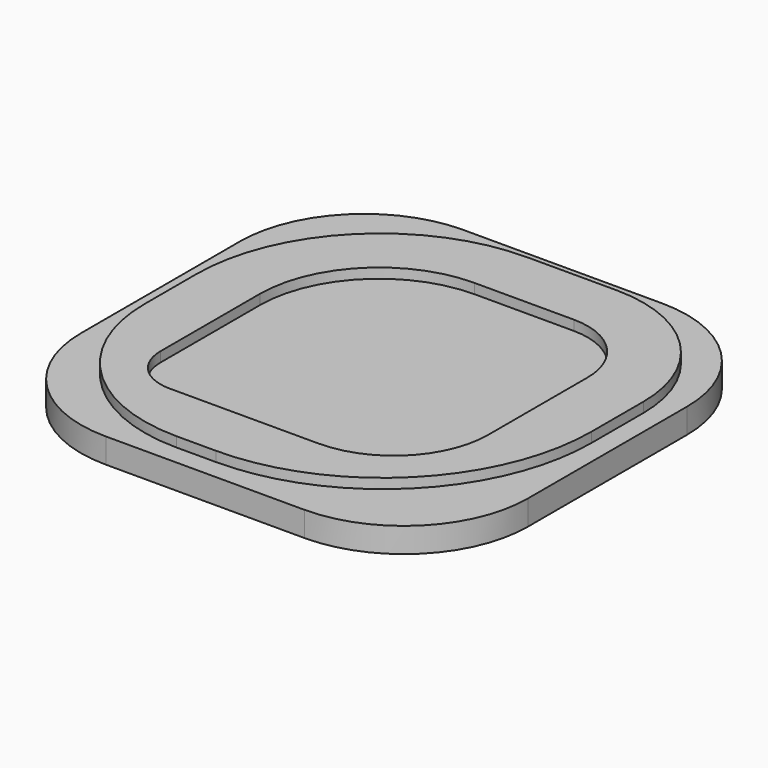
from build123d import *

# Parameters (mm, degrees)
F0_W     = 90
F0_H     = 90
F1_DEPTH = 5
F3_DEPTH = 2
F4_R     = 25


with BuildPart() as f1:
    # F0 (on Top) → F1 (new body)
    with BuildSketch(Plane.XY):
        Rectangle(F0_W, F0_H)
    extrude(amount=F1_DEPTH)

    # F2 (on face) → F3 (join)
    with BuildSketch(Plane.XY.offset(5)):
        with BuildLine():
            Line((14, 41), (-4, 41))
            ThreePointArc((-4, 41), (-30.162951, 30.162951), (-41, 4))
            Line((-41, 4), (-41, -9))
            ThreePointArc((-41, -9), (-31.627417, -31.627417), (-9, -41))
            Line((-9, -41), (-1, -41))
            ThreePointArc((-1, -41), (28.698485, -28.698485), (41, 1))
            Line((41, 1), (41, 14))
            ThreePointArc((41, 14), (33.091883, 33.091883), (14, 41))
        make_face()
        with BuildLine():
            ThreePointArc((-29, 5), (-21.970563, 21.970563), (-5, 29))
            Line((-5, 29), (15, 29))
            ThreePointArc((15, 29), (24.899495, 24.899495), (29, 15))
            Line((29, 15), (29, -10))
            ThreePointArc((29, -10), (23.435029, -23.435029), (10, -29))
            Line((10, -29), (-20, -29))
            ThreePointArc((-20, -29), (-26.363961, -26.363961), (-29, -20))
            Line((-29, -20), (-29, 5))
        make_face(mode=Mode.SUBTRACT)
    extrude(amount=F3_DEPTH)

    # F4
    f4_edges = [f1.edges().sort_by_distance(p)[0] for p in [
        (-45, -45, 2.5),
        (45, -45, 2.5),
        (45, 45, 2.5),
        (-45, 45, 2.5),
    ]]
    fillet(f4_edges, radius=F4_R)


solid = f1.part
